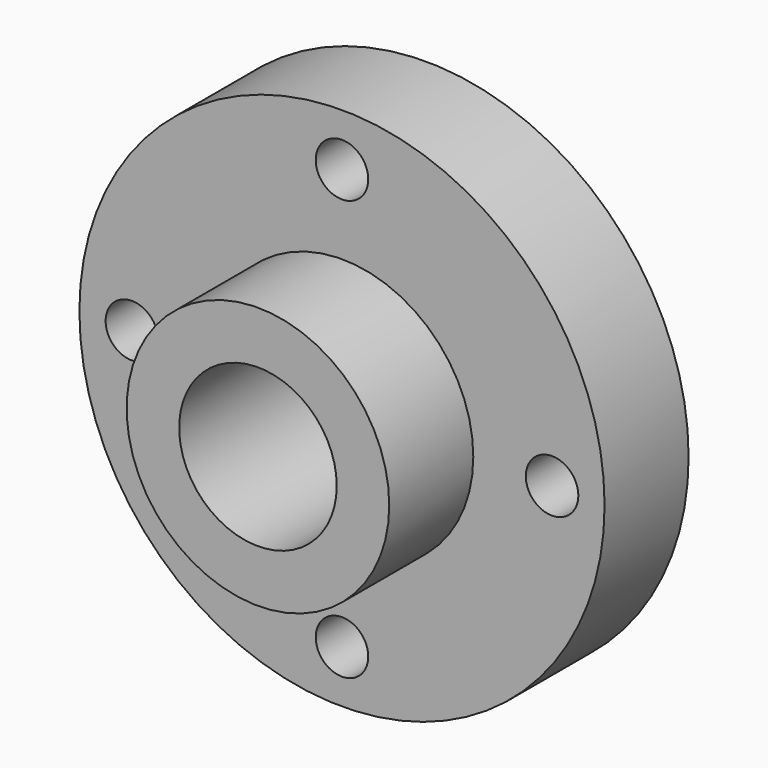
from build123d import *

# Parameters (mm, degrees)
F0_R     = 31.75
F0_R_2   = 3.175
F0_R_3   = 15.875
F1_DEPTH = 12.7
F0_R_4   = 9.525
F2_DEPTH = 25.4


with BuildPart() as f1:
    # F0 (on Front) → F1 (new body)
    with BuildSketch(Plane.XZ):
        Circle(F0_R)
        with Locations((0, -25.4)):
            Circle(F0_R_2, mode=Mode.SUBTRACT)
        with Locations((-25.4, 0)):
            Circle(F0_R_2, mode=Mode.SUBTRACT)
        Circle(F0_R_3, mode=Mode.SUBTRACT)
        with Locations((25.4, 0)):
            Circle(F0_R_2, mode=Mode.SUBTRACT)
        with Locations((0, 25.4)):
            Circle(F0_R_2, mode=Mode.SUBTRACT)
    extrude(amount=F1_DEPTH)

    # F0 (on Front) → F2 (join)
    with BuildSketch(Plane.XZ):
        Circle(F0_R_3)
        Circle(F0_R_4, mode=Mode.SUBTRACT)
    extrude(amount=F2_DEPTH)


solid = f1.part
